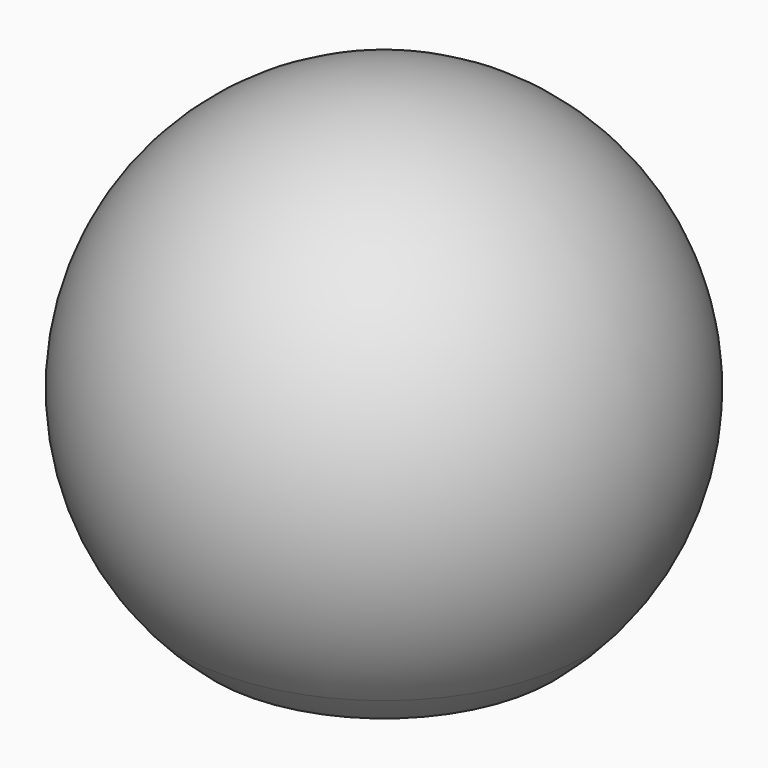
from build123d import *


with BuildPart() as f1:
    # F0 (on Front) → F1 (revolve)
    with BuildSketch(Plane.XZ):
        with BuildLine():
            Line((5.0395180013, -5.1423008775), (6.128355545, -5.1423008775))
            ThreePointArc((6.128355545, -5.1423008775), (7.2504622963, 3.3809460939), (0, 8))
            Line((0, 8), (0, 7.2))
            ThreePointArc((0, 7.2), (6.6657545079, 2.7217121158), (5.0395180013, -5.1423008775))
        make_face()
        with BuildLine():
            Line((5.0395180013, -5.1423008775), (6.128355545, -5.1423008775))
            ThreePointArc((6.128355545, -5.1423008775), (7.2504622963, 3.3809460939), (0, 8))
            Line((0, 8), (0, 7.2))
            ThreePointArc((0, 7.2), (6.6657545079, 2.7217121158), (5.0395180013, -5.1423008775))
        make_face()
        with BuildLine():
            Line((3.7566128268, -6.1423008775), (5.1256355636, -6.1423008775))
            ThreePointArc((5.1256355636, -6.1423008775), (5.6491662188, -5.6645318458), (6.128355545, -5.1423008775))
            Line((6.128355545, -5.1423008775), (5.0395180013, -5.1423008775))
            ThreePointArc((5.0395180013, -5.1423008775), (4.4263957557, -5.6786460194), (3.7566128268, -6.1423008775))
        make_face()
        with BuildLine():
            Line((0, -6.1423008775), (3.7566128268, -6.1423008775))
            ThreePointArc((3.7566128268, -6.1423008775), (4.4263957557, -5.6786460194), (5.0395180013, -5.1423008775))
            Line((5.0395180013, -5.1423008775), (0, -5.1423008775))
            Line((0, -5.1423008775), (0, -6.1423008775))
        make_face()
    revolve(axis=Axis((0, 0, 4), (0, 0, 1)))


solid = f1.part
